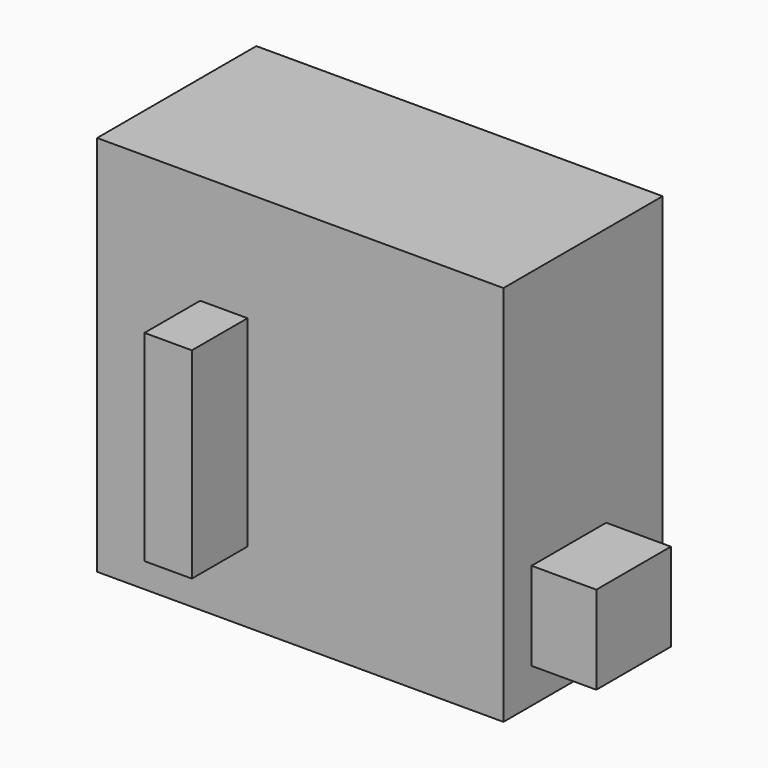
from build123d import *

# Parameters (mm, degrees)
F0_W     = 148.356453
F0_H     = 139.446944
F1_DEPTH = 72.644
F2_W     = 17.28671
F2_H     = 73.376162
F3_DEPTH = 25.4
F4_W     = 23.625166
F4_H     = 32.173844
F5_DEPTH = 34.036


with BuildPart() as f1:
    # F0 (on Front) → F1 (new body)
    with BuildSketch(Plane.XZ):
        with Locations((-1.140251, 1.052968)):
            Rectangle(F0_W, F0_H)
    extrude(amount=-F1_DEPTH)

    # F2 (on Front) → F3 (join)
    with BuildSketch(Plane.XZ):
        with Locations((-29.047467, -5.990245)):
            Rectangle(F2_W, F2_H)
    extrude(amount=F3_DEPTH)


with BuildPart() as f5:
    # F4 (on Front) → F5 (new body)
    with BuildSketch(Plane.XZ):
        with Locations((95.128715, -31.223367)):
            Rectangle(F4_W, F4_H)
    extrude(amount=-F5_DEPTH)


solid = Compound([f1.part, f5.part])
